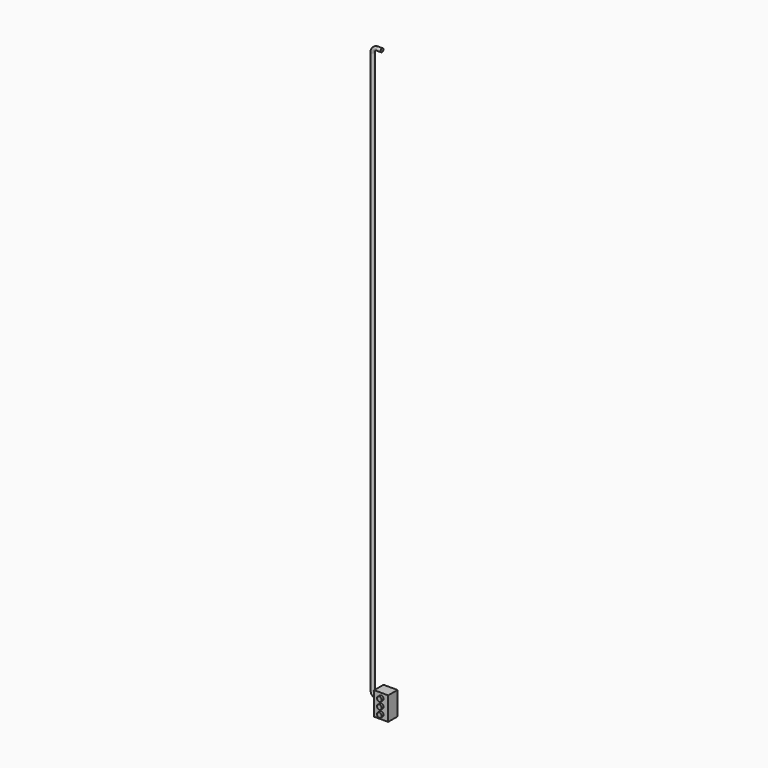
from build123d import *

# Parameters (mm, degrees)
F0_W     = 76.2
F0_H     = 127
F1_DEPTH = 63.5
F2_R     = 12.7
F3_DEPTH = 12.7


with BuildPart() as f1:
    # F0 (on Front) → F1 (new body)
    with BuildSketch(Plane.XZ):
        with Locations((38.1, 63.5)):
            Rectangle(F0_W, F0_H)
    extrude(amount=F1_DEPTH)

    # F2 (on face) → F3 (join)
    with BuildSketch(Plane.XZ.offset(63.5)):
        with Locations((38.1, 25.4)):
            Circle(F2_R)
        with Locations((38.1, 101.6)):
            Circle(F2_R)
        with Locations((38.1, 63.5)):
            Circle(F2_R)
    extrude(amount=F3_DEPTH)

    # F7: sweep along a path in F5
    with BuildLine(Plane.XZ.offset(9.525)) as f7_path:
        Line((0, 63.5), (-25.4, 63.5))
        ThreePointArc((-25.4, 63.5), (-43.360512, 70.939488), (-50.8, 88.9))
        Line((-50.8, 88.9), (-50.8, 3136.9))
        ThreePointArc((-50.8, 3136.9), (-43.360512, 3154.860512), (-25.4, 3162.3))
        Line((-25.4, 3162.3), (0, 3162.3))
    # F6 (on face) → F7 (sweep)
    with BuildSketch(Plane(origin=(0, 0, 0), x_dir=(0, -1, 0), z_dir=(-1, 0, 0))):
        with BuildLine():
            ThreePointArc((0, 63.5), (9.525, 53.975), (19.05, 63.5))
            ThreePointArc((19.05, 63.5), (9.525, 73.025), (0, 63.5))
        make_face()
    sweep(path=f7_path.line)


solid = f1.part
